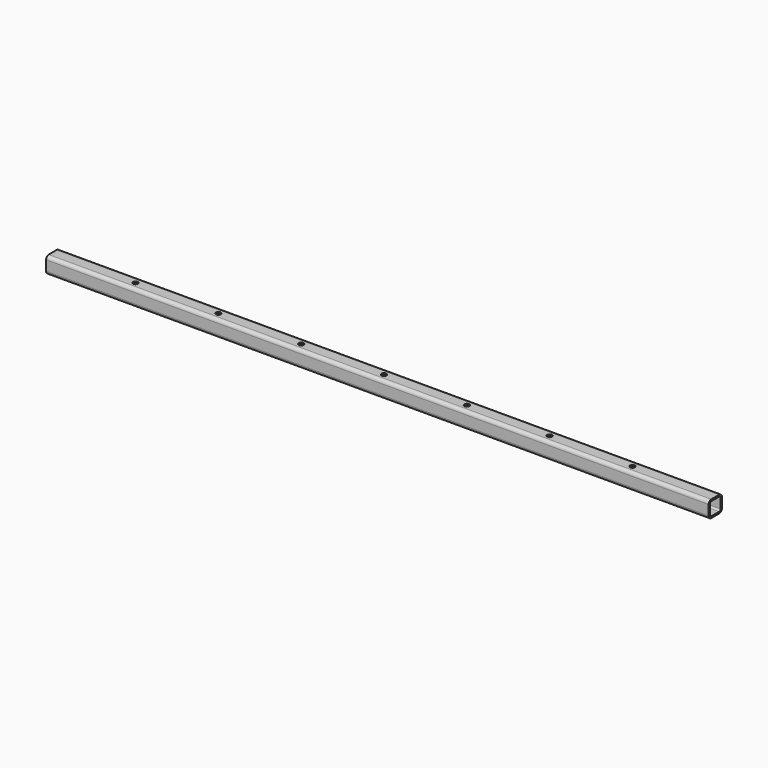
from build123d import *

# Parameters (mm, degrees)
F0_W     = 4000
F0_H     = 100
F1_DEPTH = 50
F2_R     = 20
F3_T     = -10
F5_R     = 15
F6_DEPTH = 250


with BuildPart() as f1:
    # F0 (on Top) → F1 (new body, symmetric)
    with BuildSketch(Plane.XY):
        Rectangle(F0_W, F0_H)
    extrude(amount=F1_DEPTH, both=True)

    # F2
    f2_edges = [f1.edges().sort_by_distance(p)[0] for p in [
        (0, 50, 50),
        (0, -50, -50),
        (0, -50, 50),
        (0, 50, -50),
    ]]
    fillet(f2_edges, radius=F2_R)

    # F3
    f3_openings = [f1.faces().sort_by_distance(p)[0] for p in [
        (2000, 0, 0),
        (-2000, 0, 0),
    ]]
    offset(amount=F3_T, openings=f3_openings)

    # F4: F1 across plane


with BuildPart() as f1_1:
    add(f1.part)
    add(f1.part.mirror(Plane.YZ))

    # F5 (on Top) → F6 (cut, symmetric)
    with BuildSketch(Plane.XY):
        Circle(F5_R)
        with Locations((500, 0)):
            Circle(F5_R)
        with Locations((1000, 0)):
            Circle(F5_R)
        with Locations((1500, 0)):
            Circle(F5_R)
        with Locations((-500, 0)):
            Circle(F5_R)
        with Locations((-1000, 0)):
            Circle(F5_R)
        with Locations((-1500, 0)):
            Circle(F5_R)
    extrude(amount=F6_DEPTH, both=True, mode=Mode.SUBTRACT)


solid = f1_1.part
